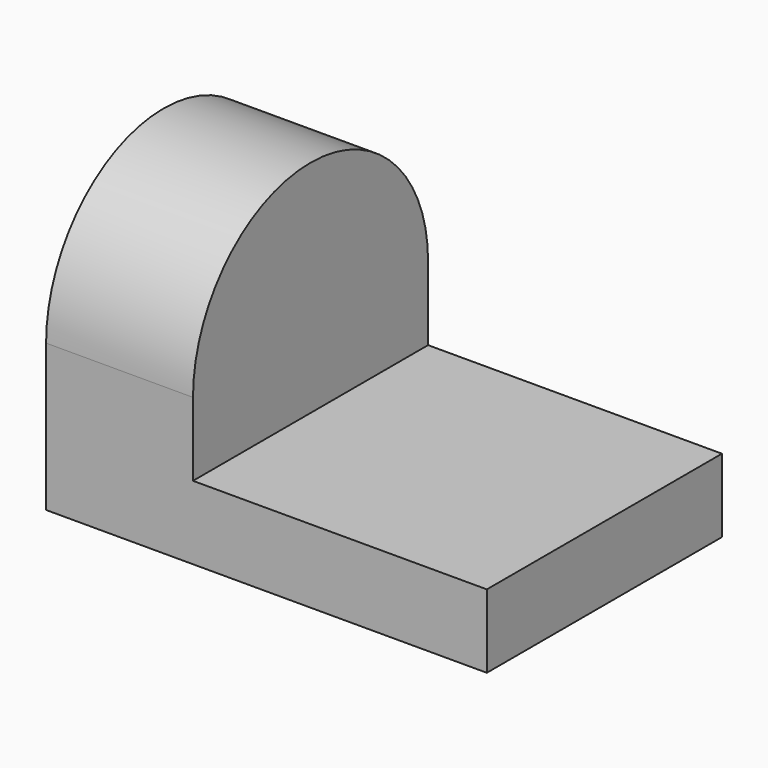
from build123d import *

# Parameters (mm, degrees)
F0_W     = 38.1
F0_H     = 6.35
F1_DEPTH = 25.4
F3_DEPTH = 12.7


with BuildPart() as f1:
    # F0 (on Front) → F1 (new body)
    with BuildSketch(Plane.XZ):
        with Locations((19.05, 3.175)):
            Rectangle(F0_W, F0_H)
    extrude(amount=F1_DEPTH)

    # F2 (on face) → F3 (join)
    with BuildSketch(Plane(origin=(0, 0, 0), x_dir=(0, -1, 0), z_dir=(-1, 0, 0))):
        with BuildLine():
            Line((0, 6.35), (25.4, 6.35))
            Line((25.4, 6.35), (25.4, 12.7))
            ThreePointArc((25.4, 12.7), (12.7, 25.4), (0, 12.7))
            Line((0, 12.7), (0, 6.35))
        make_face()
    extrude(amount=-F3_DEPTH)


solid = f1.part
